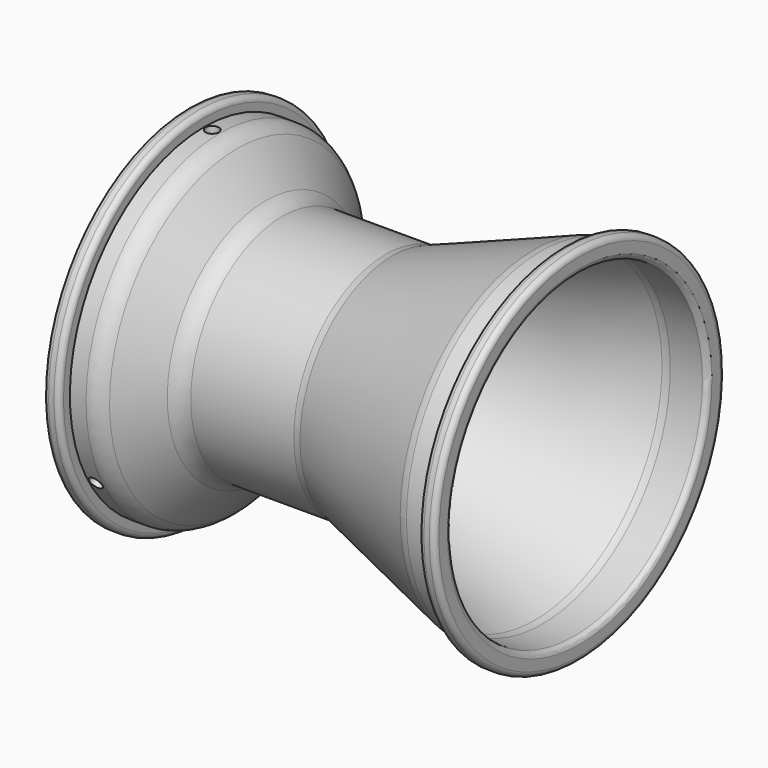
from build123d import *

# Parameters (mm, degrees)
F2_R     = 8
F3_R     = 2
F4_R     = 4
F4_R_2   = 26
F5_DEPTH = 107.001
F6_R     = 2.5
F7_DEPTH = 68.101
F8_COUNT = 3


with BuildPart() as f1:
    # F0 (on Front) → F1 (revolve)
    with BuildSketch(Plane.XZ):
        Polygon((6, 68.1), (0, 68.1), (0, 60.1), (14.5279027322, 60.1), (30, 40.1), (40, 40.1), (40, 0), (46, 0), (46, 40.1), (76, 40.1), (131.5238349138, 60.1), (147, 60.1), (147, 68.1), (141, 68.1), (141, 63.1), (131, 63.1), (75.4761650862, 43.1), (31.4720972678, 43.1), (16, 63.1), (6, 63.1), align=None)
    revolve(axis=Axis((99.3098750351, 0, 0), (1, 0, 0)))

    # F2
    f2_edges = [f1.edges().sort_by_distance(p)[0] for p in [
        (16, 0, -63.1),
        (131, 0, -63.1),
        (75.476165, 0, -43.1),
        (31.472097, 0, -43.1),
        (14.527903, 0, -60.1),
        (131.523835, 0, -60.1),
    ]]
    fillet(f2_edges, radius=F2_R)

    # F3
    f3_edges = [f1.edges().sort_by_distance(p)[0] for p in [
        (0, 0, -68.1),
        (6, 0, -68.1),
        (141, 0, -68.1),
        (147, 0, -68.1),
        (0, 0, -60.1),
        (30, 0, -40.1),
        (147, 0, -60.1),
        (46, 0, -40.1),
        (76, 0, -40.1),
        (40, 0, -40.1),
    ]]
    fillet(f3_edges, radius=F3_R)

    # F4 (on face) → F5 (cut, through all)
    with BuildSketch(Plane(origin=(40, 0, 0), x_dir=(0, -1, 0), z_dir=(-1, 0, 0))):
        with Locations((0, 32.5)):
            Circle(F4_R)
        with Locations((32.5, 0)):
            Circle(F4_R)
        with Locations((0, -32.5)):
            Circle(F4_R)
        with Locations((-32.5, 0)):
            Circle(F4_R)
        Circle(F4_R_2)
    extrude(amount=-F5_DEPTH, mode=Mode.SUBTRACT)

    # F6 (on Top) → F7 (cut, through all)
    with BuildSketch(Plane.XY):
        with Locations((9, 0)):
            Circle(F6_R)
    f7 = extrude(amount=F7_DEPTH, mode=Mode.SUBTRACT)

    # F8: F7 ×3 about axis
    f8_axis = Axis((76, 0, 0), (1, 0, 0))
    for i in range(1, F8_COUNT):
        add(f7.rotate(f8_axis, i * 360 / F8_COUNT), mode=Mode.SUBTRACT)


solid = f1.part
